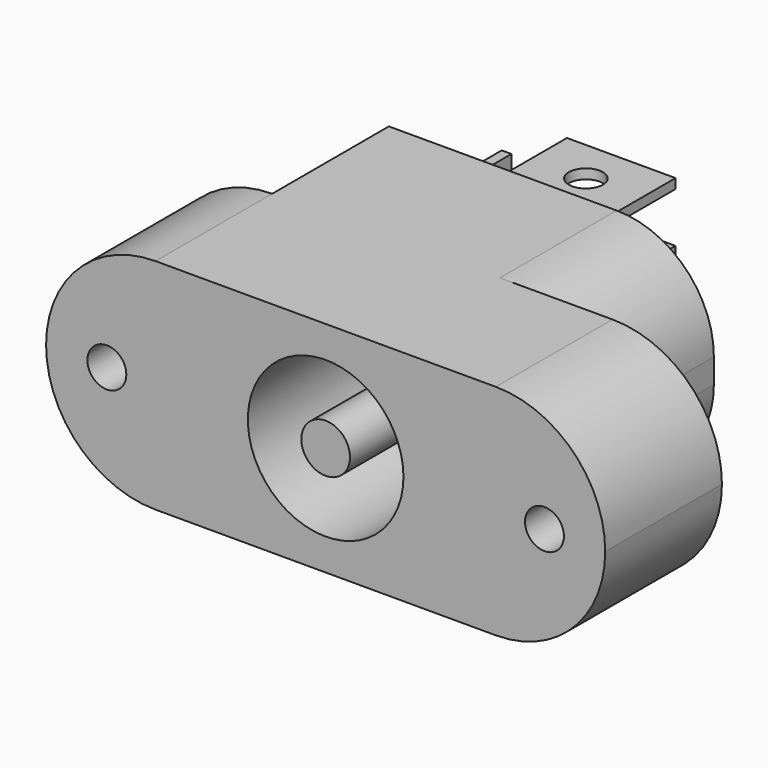
from build123d import *

# Parameters (mm, degrees)
F0_R      = 0.8
F0_R_2    = 3.2
F1_DEPTH  = 6
F3_DEPTH  = 6
F4_W      = 4.4655336533
F4_H      = 0.3993565915
F4_W_2    = 0.3993565915
F4_H_2    = 4.4655336533
F5_DEPTH  = 4.5
F6_R      = 0.7
F7_DEPTH  = 5
F8_R      = 0.7
F9_DEPTH  = 1
F0_R_3    = 1
F10_DEPTH = 10
F11_DEPTH = 10


with BuildPart() as f1:
    # F0 (on Front) → F1 (new body)
    with BuildSketch(Plane.XZ):
        with BuildLine():
            Line((-7, -4.5), (7, -4.5))
            ThreePointArc((7, -4.5), (10.1819805153, -3.1819805153), (11.5, 0))
            ThreePointArc((11.5, 0), (10.1819805153, 3.1819805153), (7, 4.5))
            Line((7, 4.5), (-7, 4.5))
            ThreePointArc((-7, 4.5), (-10.1819805153, 3.1819805153), (-11.5, 0))
            ThreePointArc((-11.5, 0), (-10.1819805153, -3.1819805153), (-7, -4.5))
        make_face()
        with Locations((-9, 0)):
            Circle(F0_R, mode=Mode.SUBTRACT)
        Circle(F0_R_2, mode=Mode.SUBTRACT)
        with Locations((9, 0)):
            Circle(F0_R, mode=Mode.SUBTRACT)
    extrude(amount=-F1_DEPTH)

    # F2 (on face) → F3 (join)
    with BuildSketch(Plane(origin=(0, 6, 0), x_dir=(-1, 0, 0), z_dir=(0, 1, 0))):
        with BuildLine():
            Line((7, 4.5), (-2.3691008836, 4.5))
            ThreePointArc((-2.3691008836, 4.5), (-5.1975280083, 3.3284271247), (-6.3691008836, 0.5))
            Line((-6.3691008836, 0.5), (-6.3691008836, -0.5))
            ThreePointArc((-6.3691008836, -0.5), (-5.1975280083, -3.3284271247), (-2.3691008836, -4.5))
            Line((-2.3691008836, -4.5), (7, -4.5))
            Line((7, -4.5), (7, 4.5))
        make_face()
    extrude(amount=F3_DEPTH)

    # F4 (on face) → F5 (join)
    with BuildSketch(Plane(origin=(0, 12, 0), x_dir=(-1, 0, 0), z_dir=(0, 1, 0))):
        with Locations((1.0412741685, 3.2637477852)):
            Rectangle(F4_W, F4_H)
        with Locations((1.0412741685, 0.8087011712)):
            Rectangle(F4_W, F4_H)
        with Locations((5.7582546142, -0.0916777644)):
            Rectangle(F4_W_2, F4_H_2)
    extrude(amount=F5_DEPTH)

    # F6 (on face) → F7 (cut)
    with BuildSketch(Plane.XY.offset(3.463426081)):
        with Locations((-1.0412741685, 14.6806975827)):
            Circle(F6_R)
    extrude(amount=-F7_DEPTH, mode=Mode.SUBTRACT)

    # F8 (on face) → F9 (cut)
    with BuildSketch(Plane.YZ.offset(-5.5585763184)):
        with Locations((14.6806975827, -0.0916777644)):
            Circle(F8_R)
    extrude(amount=-F9_DEPTH, mode=Mode.SUBTRACT)

    # F0 (on Front) → F10 (cut)
    with BuildSketch(Plane.XZ):
        Circle(F0_R_2)
        Circle(F0_R_3, mode=Mode.SUBTRACT)
    extrude(amount=-F10_DEPTH, mode=Mode.SUBTRACT)

    # F0 (on Front) → F11 (join)
    with BuildSketch(Plane.XZ):
        Circle(F0_R_3)
    extrude(amount=-F11_DEPTH)


solid = f1.part
